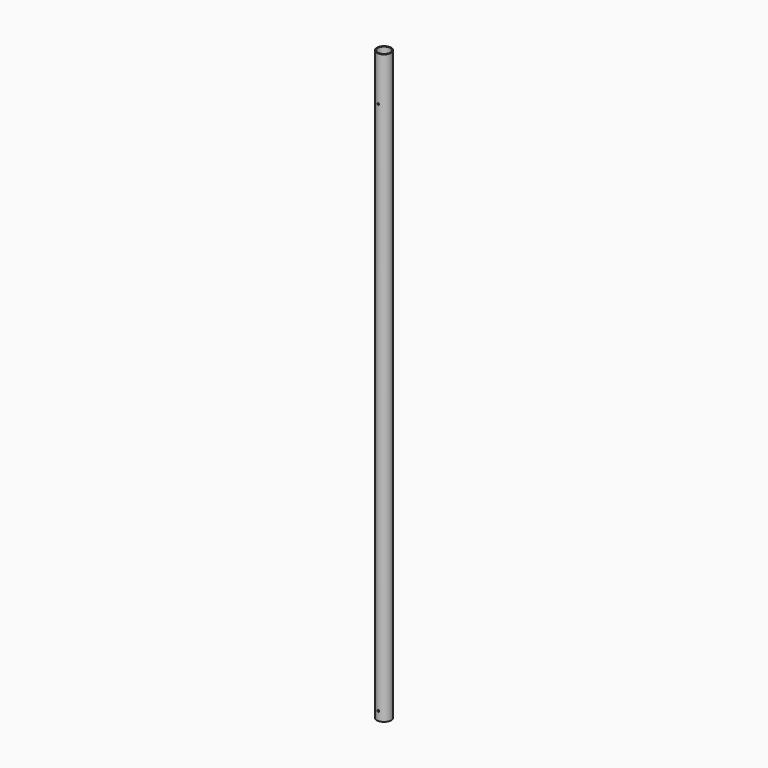
from build123d import *

# Parameters (mm, degrees)
F0_R          = 4
F0_R_2        = 3.5
F1_DEPTH      = 330
F2_R          = 0.5
F3_DEPTH      = 4.001
F3_DEPTH_BACK = 25


with BuildPart() as f1:
    # F0 (on Top) → F1 (new body)
    with BuildSketch(Plane.XY):
        Circle(F0_R)
        Circle(F0_R_2, mode=Mode.SUBTRACT)
    extrude(amount=F1_DEPTH)

    # F2 (on Front) → F3 (cut, two sides)
    with BuildSketch(Plane.XZ) as f3_sk:
        with Locations((0, 5)):
            Circle(F2_R)
        with Locations((0, 305)):
            Circle(F2_R)
    extrude(amount=-F3_DEPTH, mode=Mode.SUBTRACT)
    extrude(f3_sk.sketch, amount=F3_DEPTH_BACK, mode=Mode.SUBTRACT)


solid = f1.part
